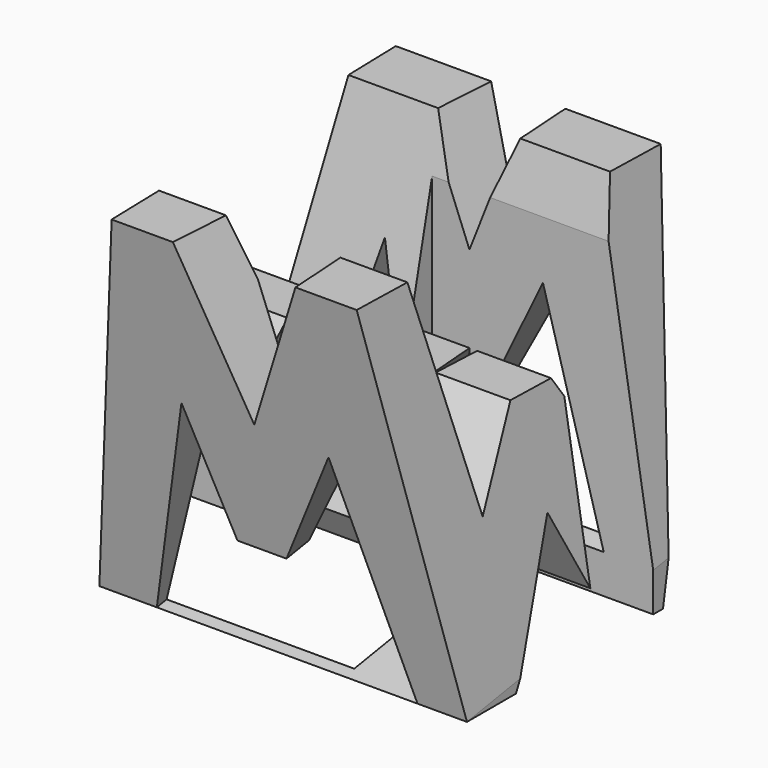
from build123d import *

# Parameters (mm, degrees)
F0_W     = 38.1
F0_H     = 38.1
F1_DEPTH = 38.1
F5_DEPTH = 49.38614
F7_DEPTH = 61.12182
F8_W     = 23.568836
F8_H     = 7.62
F8_W_2   = 25.4
F9_DEPTH = 45.89091


with BuildPart() as f1:
    # F0 (on Front) → F1 (new body)
    with BuildSketch(Plane.XZ):
        with Locations((19.05, 19.05)):
            Rectangle(F0_W, F0_H)
    extrude(amount=F1_DEPTH)

    # F4 (on offset) → F5 (cut)
    with BuildSketch(Plane.YZ.offset(38.1)):
        Polygon((-11.43, 15.875), (-6.35, 38.1), (-31.75, 38.1), (-26.67, 15.875), (-21.59, 24.043063), (-16.51, 24.043063), align=None)
        Polygon((-6.35, 0), (0, 0), (0, 38.1), align=None)
        Polygon((-25.4, 0), (-12.7, 0), (-19.05, 13.357159), align=None)
        Polygon((-38.1, 0), (-31.75, 0), (-38.1, 38.1), align=None)
    extrude(amount=-F5_DEPTH, mode=Mode.SUBTRACT)

    # F6 (on face) → F7 (cut)
    with BuildSketch(Plane(origin=(0, -30.891892, -5.148649), x_dir=(1, 0, 0), z_dir=(0, -0.986394, -0.164399))):
        Polygon((0, 5.219668), (6.35, 43.84521), (0, 43.84521), align=None)
        Polygon((25.4, 43.84521), (12.7, 43.84521), (19.05, 27.97021), align=None)
        Polygon((38.1, 43.84521), (31.75, 43.84521), (38.1, 5.219668), align=None)
        Polygon((11.43, 27.444668), (5.954215, 5.219668), (32.969773, 5.219668), (26.67, 27.444668), (20.714239, 15.27021), (15.634239, 15.27021), align=None)
    extrude(amount=-F7_DEPTH, mode=Mode.SUBTRACT)

    # F8 (on offset) → F9 (cut)
    with BuildSketch(Plane.XY.offset(38.1)):
        with Locations((26.971357, -11.43)):
            Rectangle(F8_W, F8_H)
        with Locations((12.7, -26.67)):
            Rectangle(F8_W_2, F8_H)
    extrude(amount=-F9_DEPTH, mode=Mode.SUBTRACT)


solid = f1.part
